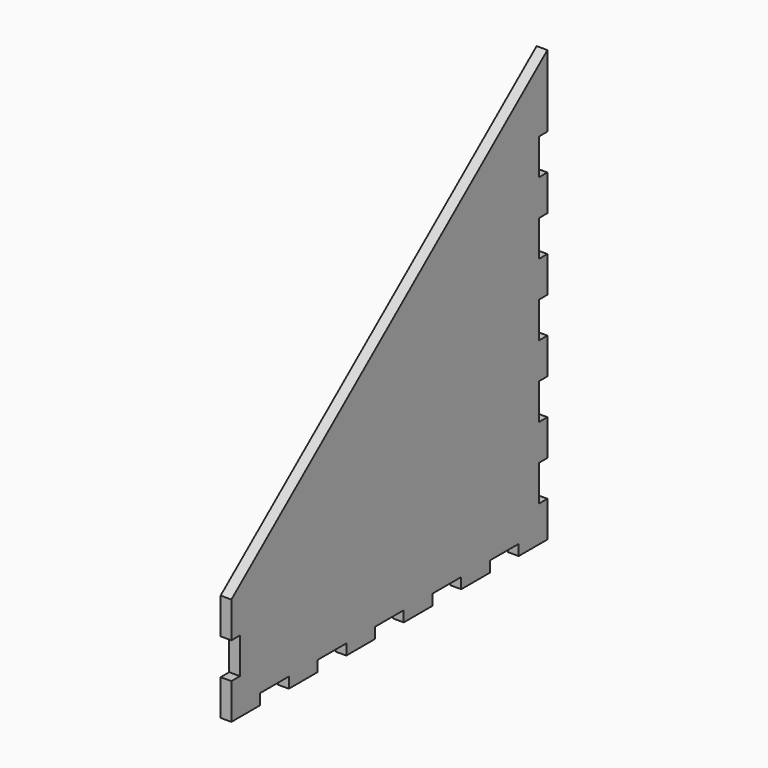
from build123d import *

# Parameters (mm, degrees)
F1_DEPTH = 3
F2_W     = 10
F2_H     = 3
F3_DEPTH = 25
F4_W     = 3
F4_H     = 10
F5_DEPTH = 25
F6_W     = 3
F6_H     = 10
F7_DEPTH = 25


with BuildPart() as f1:
    # F0 (on Right) → F1 (new body)
    with BuildSketch(Plane.YZ):
        Polygon((0, 0), (110, 0), (110, 120), (0, 30), align=None)
    extrude(amount=F1_DEPTH)

    # F2 (on face) → F3 (cut)
    with BuildSketch(Plane.YZ.offset(3)):
        with Locations((15, 1.5)):
            Rectangle(F2_W, F2_H)
        with Locations((35, 1.5)):
            Rectangle(F2_W, F2_H)
        with Locations((55, 1.5)):
            Rectangle(F2_W, F2_H)
        with Locations((75, 1.5)):
            Rectangle(F2_W, F2_H)
        with Locations((95, 1.5)):
            Rectangle(F2_W, F2_H)
    extrude(amount=-F3_DEPTH, mode=Mode.SUBTRACT)

    # F4 (on face) → F5 (cut)
    with BuildSketch(Plane.YZ.offset(3)):
        with Locations((1.5, 15)):
            Rectangle(F4_W, F4_H)
    extrude(amount=-F5_DEPTH, mode=Mode.SUBTRACT)

    # F6 (on face) → F7 (cut)
    with BuildSketch(Plane.YZ.offset(3)):
        with Locations((108.5, 15)):
            Rectangle(F6_W, F6_H)
        with Locations((108.5, 35)):
            Rectangle(F6_W, F6_H)
        with Locations((108.5, 55)):
            Rectangle(F6_W, F6_H)
        with Locations((108.5, 75)):
            Rectangle(F6_W, F6_H)
        with Locations((108.5, 95)):
            Rectangle(F6_W, F6_H)
    extrude(amount=-F7_DEPTH, mode=Mode.SUBTRACT)


solid = f1.part
